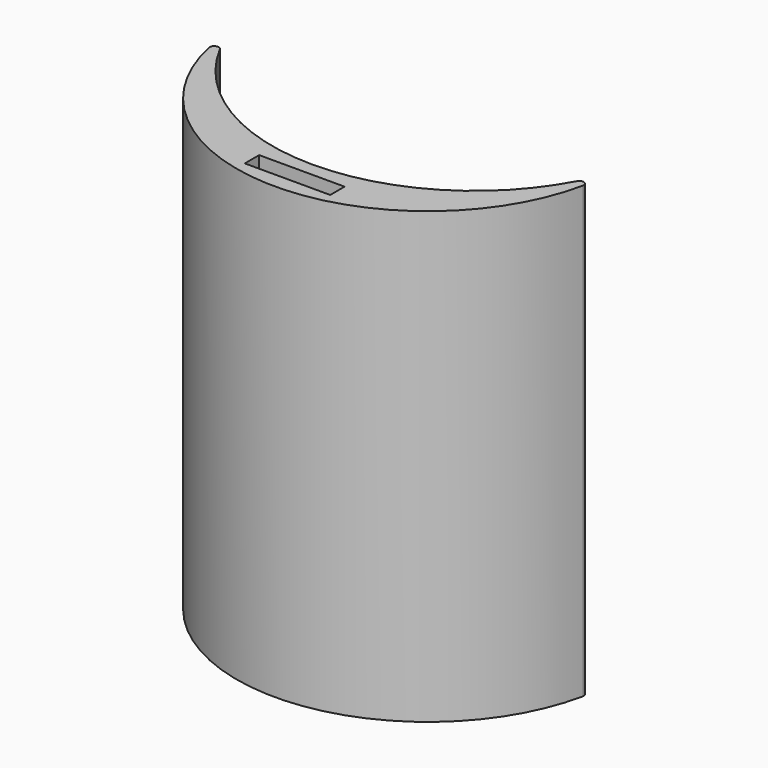
from build123d import *

# Parameters (mm, degrees)
CYLINDER010_R     = 3.5
CYLINDER010_DEPTH = 25
CYLINDER006_R     = 3.5
CYLINDER006_DEPTH = 25
BOX_W             = 19
BOX_H             = 4
BOX_DEPTH         = 100
CYLINDER001_R     = 45
CYLINDER001_DEPTH = 100
CYLINDER_R        = 42.5
CYLINDER_DEPTH    = 100
FILLET_R          = 1
FILLET001_R       = 1


with BuildPart() as cylindre010:
    # Cylinder010 → Cylinder010 (new body)
    with BuildSketch(Plane(origin=(18, -33, -12.5), x_dir=(1, 0, 0), z_dir=(0, 0, 1))):
        Circle(CYLINDER010_R)
    extrude(amount=CYLINDER010_DEPTH)


with BuildPart() as cylindre006:
    # Cylinder006 → Cylinder006 (new body)
    with BuildSketch(Plane(origin=(-18, -33, -12.5), x_dir=(1, 0, 0), z_dir=(0, 0, 1))):
        Circle(CYLINDER006_R)
    extrude(amount=CYLINDER006_DEPTH)


with BuildPart() as cube:
    # Box → Box (new body)
    with BuildSketch(Plane(origin=(-9.5, -39, 0), x_dir=(1, 0, 0), z_dir=(0, 0, 1))):
        with Locations((9.5, 2)):
            Rectangle(BOX_W, BOX_H)
    extrude(amount=BOX_DEPTH)


with BuildPart() as cylindre001:
    # Cylinder001 → Cylinder001 (new body)
    with BuildSketch(Plane(origin=(0, 13, 0), x_dir=(1, 0, 0), z_dir=(0, 0, 1))):
        Circle(CYLINDER001_R)
    extrude(amount=CYLINDER001_DEPTH)


with BuildPart() as cut009:
    # Cylinder → Cylinder (new body)
    with BuildSketch(Plane.XY):
        Circle(CYLINDER_R)
    extrude(amount=CYLINDER_DEPTH)

    # Cut: cut Cylindre001
    add(cylindre001.part, mode=Mode.SUBTRACT)

    # Fillet
    fillet_edges = [cut009.edges().sort_by_distance(p)[0] for p in [
        (-42.456904, -1.913462, 50),
    ]]
    fillet(fillet_edges, radius=FILLET_R)

    # Fillet001
    fillet001_edges = [cut009.edges().sort_by_distance(p)[0] for p in [
        (42.456904, -1.913462, 50),
    ]]
    fillet(fillet001_edges, radius=FILLET001_R)

    # Cut001: cut Cube
    add(cube.part, mode=Mode.SUBTRACT)

    # Cut006: cut Cylindre006
    add(cylindre006.part, mode=Mode.SUBTRACT)

    # Cut009: cut Cylindre010
    add(cylindre010.part, mode=Mode.SUBTRACT)


solid = cut009.part
